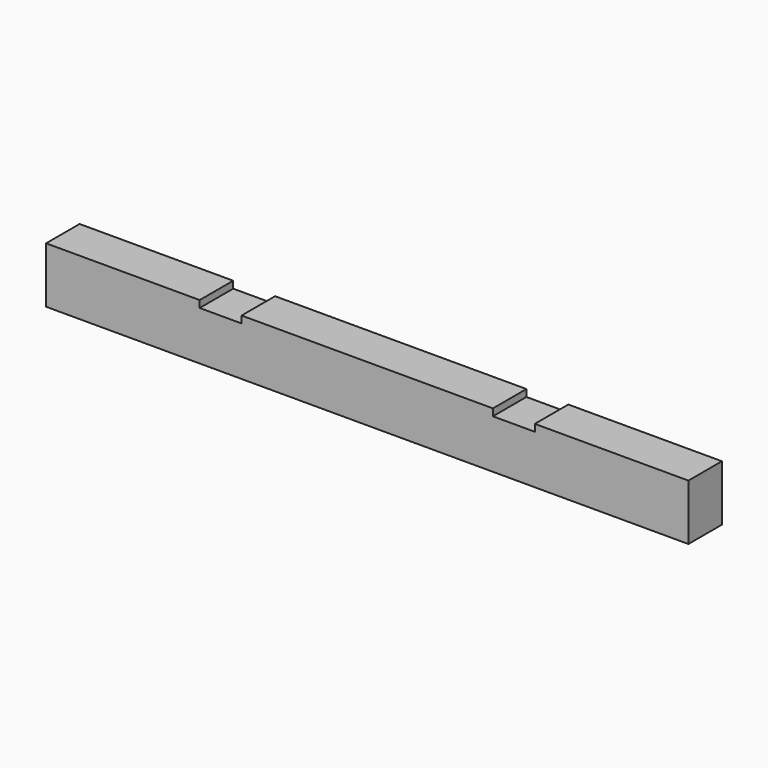
from build123d import *

# Parameters (mm, degrees)
F0_W     = 38.1
F0_H     = 50.8
F1_DEPTH = 584.2
F2_W     = 38.1
F2_H     = 6.35
F3_DEPTH = 38.1


with BuildPart() as f1:
    # F0 (on Right) → F1 (new body)
    with BuildSketch(Plane.YZ):
        Rectangle(F0_W, F0_H)
    extrude(amount=F1_DEPTH)

    # F2 (on face) → F3 (cut, through all)
    with BuildSketch(Plane.XZ.offset(19.05)):
        with Locations((158.75, 22.225)):
            Rectangle(F2_W, F2_H)
        with Locations((425.45, 22.225)):
            Rectangle(F2_W, F2_H)
    extrude(amount=-F3_DEPTH, mode=Mode.SUBTRACT)


solid = f1.part
